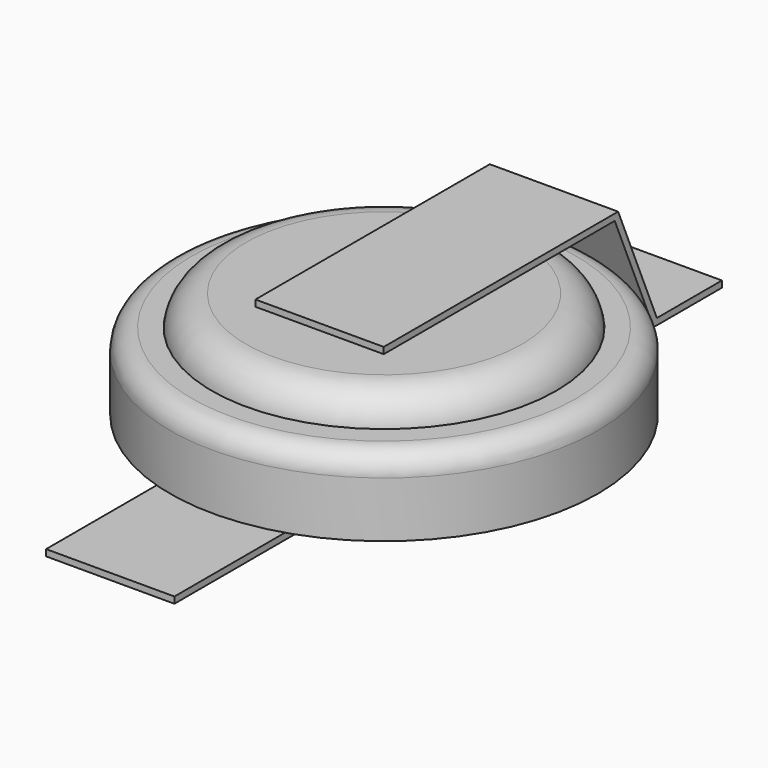
from build123d import *

# Parameters (mm, degrees)
F0_R     = 4.025
F1_DEPTH = 2.5
F0_R_2   = 5
F2_DEPTH = 1.8
F4_DEPTH = 1.5
F5_R     = 0.8
F6_R     = 0.5


with BuildPart() as f1:
    # F0 (on Top) → F1 (new body)
    with BuildSketch(Plane.XY):
        Circle(F0_R)
    extrude(amount=F1_DEPTH)

    # F5
    f5_edges = [f1.edges().sort_by_distance(p)[0] for p in [
        (-4.025, 0, 2.5),
    ]]
    fillet(f5_edges, radius=F5_R)


with BuildPart() as f2:
    # F0 (on Top) → F2 (new body)
    with BuildSketch(Plane.XY):
        Circle(F0_R_2)
        Circle(F0_R, mode=Mode.SUBTRACT)
    extrude(amount=F2_DEPTH)

    # F6
    f6_edges = [f2.edges().sort_by_distance(p)[0] for p in [
        (-5, 0, 1.8),
    ]]
    fillet(f6_edges, radius=F6_R)


with BuildPart() as f4:
    # F3 (on Right) → F4 (new body, symmetric)
    with BuildSketch(Plane.YZ):
        Polygon((-1.8825538568, 2.5), (0, 2.5), (4.8674461432, 2.5), (5.0305708949, 2.5), (4.9664640729, 2.65), (-1.8825538568, 2.65), align=None)
        Polygon((5.0305708949, 2.5), (4.8674461432, 2.5), (5.9358931779, 0), (6.0990179297, 0), align=None)
        Polygon((6.0990179297, 0), (5.9358931779, 0), (6, -0.15), (8, -0.15), (8, 0), align=None)
    extrude(amount=F4_DEPTH, both=True)


with BuildPart() as f4b:
    # F3 (on Right) → F4, piece 2 (new body, symmetric)
    with BuildSketch(Plane.YZ):
        Polygon((2, 0), (0, 0), (-8, 0), (-8, -0.15), (2, -0.15), align=None)
    extrude(amount=F4_DEPTH, both=True)


solid = Compound([f1.part, f2.part, f4.part, f4b.part])
